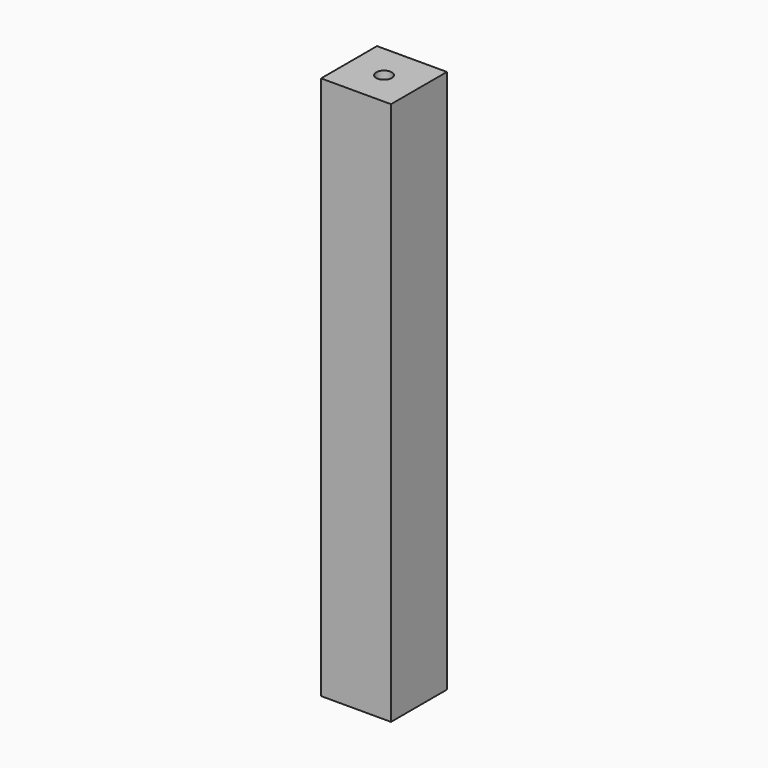
from build123d import *

# Parameters (mm, degrees)
CYLINDER_R     = 5
CYLINDER_DEPTH = 500
BOX_W          = 45
BOX_H          = 45
BOX_DEPTH      = 350


with BuildPart() as screwhole:
    # Cylinder → Cylinder (new body)
    with BuildSketch(Plane(origin=(22.5, 22.5, -150), x_dir=(1, 0, 0), z_dir=(0, 0, 1))):
        Circle(CYLINDER_R)
    extrude(amount=CYLINDER_DEPTH)


with BuildPart() as screwedleg:
    # Box → Box (new body)
    with BuildSketch(Plane.XY):
        with Locations((22.5, 22.5)):
            Rectangle(BOX_W, BOX_H)
    extrude(amount=BOX_DEPTH)

    # Cut: cut ScrewHole
    add(screwhole.part, mode=Mode.SUBTRACT)


solid = screwedleg.part
